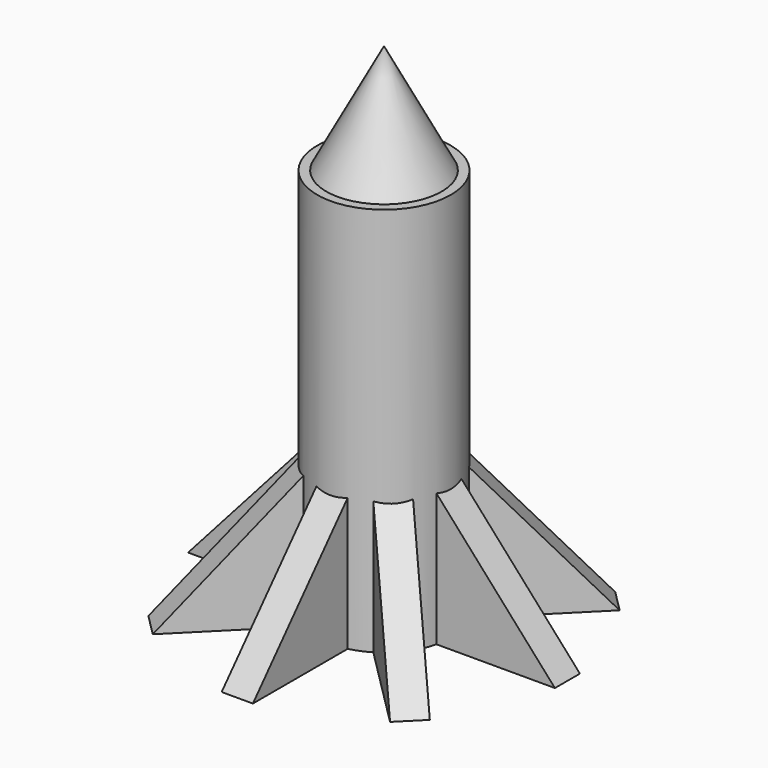
from build123d import *

# Parameters (mm, degrees)
F0_R     = 27.153692
F1_DEPTH = 158.496
F3_DEPTH = 6.35
F4_COUNT = 8


with BuildPart() as f1:
    # F0 (on Top) → F1 (new body)
    with BuildSketch(Plane.XY):
        Circle(F0_R)
    extrude(amount=F1_DEPTH)

    # F2 (on Right) → F3 (join, symmetric)
    with BuildSketch(Plane.YZ):
        Polygon((6.657729, 76.2), (6.657729, 0), (74.554974, 0), align=None)
    extrude(amount=F3_DEPTH, both=True)



with BuildPart() as f4_1:
    # F4: instance of F1
    add(f1.part.rotate(Axis((0, 0, 0), (0, 0, -1)), 1 * 360 / F4_COUNT))


with BuildPart() as f4_2:
    # F4: instance of F1
    add(f1.part.rotate(Axis((0, 0, 0), (0, 0, -1)), 2 * 360 / F4_COUNT))


with BuildPart() as f4_3:
    # F4: instance of F1
    add(f1.part.rotate(Axis((0, 0, 0), (0, 0, -1)), 3 * 360 / F4_COUNT))


with BuildPart() as f4_4:
    # F4: instance of F1
    add(f1.part.rotate(Axis((0, 0, 0), (0, 0, -1)), 4 * 360 / F4_COUNT))


with BuildPart() as f4_5:
    # F4: instance of F1
    add(f1.part.rotate(Axis((0, 0, 0), (0, 0, -1)), 5 * 360 / F4_COUNT))


with BuildPart() as f4_6:
    # F4: instance of F1
    add(f1.part.rotate(Axis((0, 0, 0), (0, 0, -1)), 6 * 360 / F4_COUNT))


with BuildPart() as f4_7:
    # F4: instance of F1
    add(f1.part.rotate(Axis((0, 0, 0), (0, 0, -1)), 7 * 360 / F4_COUNT))


with BuildPart() as f1_1:
    add(f1.part)

    add(f4_1.part)  # F6 merges F4_1

    add(f4_2.part)  # F6 merges F4_2

    add(f4_3.part)  # F6 merges F4_3

    add(f4_4.part)  # F6 merges F4_4

    add(f4_5.part)  # F6 merges F4_5

    add(f4_6.part)  # F6 merges F4_6

    add(f4_7.part)  # F6 merges F4_7
    # F5 (on Right) → F6 (revolve)
    with BuildSketch(Plane.YZ):
        Polygon((-25.58529, 154.478967), (0, 154.478967), (0, 202.92218), align=None)
    revolve(axis=Axis((0, 0, 178.700574), (0, 0, 1)))


solid = f1_1.part
